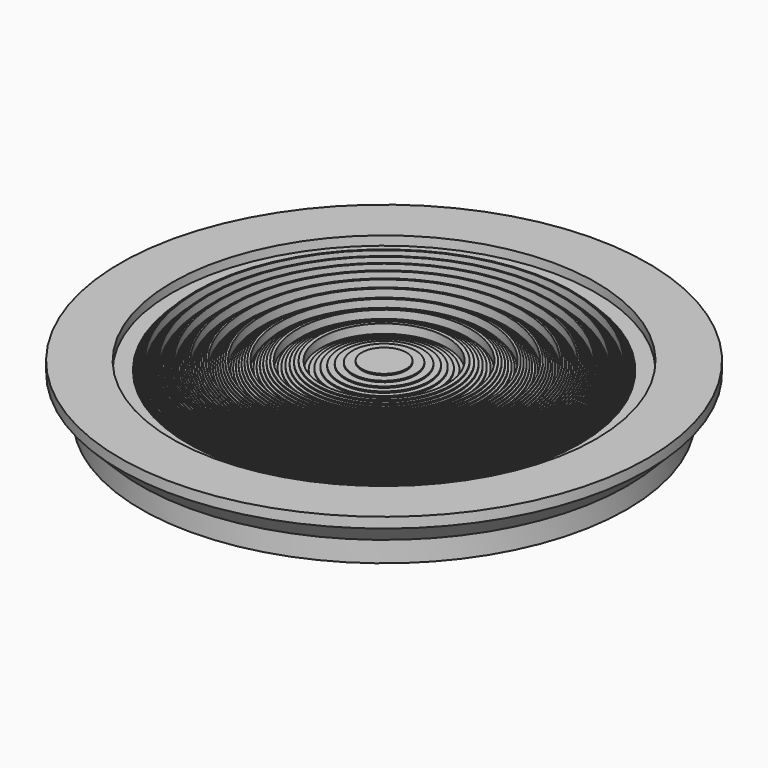
from build123d import *

# Parameters (mm, degrees)
F2_SIZE  = 2
F3_R     = 23.368
F3_R_2   = 22.86
F4_DEPTH = 2


with BuildPart() as f1:
    # F0 (on Front) → F1 (revolve)
    with BuildSketch(Plane.XZ):
        Polygon((-10.558, 1.373492), (-10.558, 1.501507), (-12.7, 1.498492), (-12.7, -1.501508), (12.7, -1.501508), (12.7, 1.498492), (7.7, 1.498492), (7.7, 0.623492), (6.174, 0.623492), (6.174, 0.748492), (6.05, 0.748492), (6.05, 0.873492), (5.925, 0.873492), (5.925, 0.998492), (5.8, 0.998492), (5.8, 1.123492), (5.673, 1.123492), (5.673, 1.248492), (5.546, 1.248492), (5.546, 1.373492), (5.418, 1.373492), (5.418, 1.498492), (5.289, 1.498492), (5.289, 0.623492), (5.159, 0.623492), (5.159, 0.748492), (5.028, 0.748492), (5.028, 0.873492), (4.896, 0.873492), (4.896, 0.998492), (4.763, 0.998492), (4.763, 1.123492), (4.628998, 1.123492), (4.628998, 1.248492), (4.494, 1.248492), (4.494, 1.373492), (4.359, 1.373492), (4.359, 1.498492), (4.222, 1.498492), (4.222, 0.623492), (4.084, 0.623492), (4.084, 0.748492), (3.945, 0.748492), (3.945, 0.873492), (3.804, 0.873492), (3.804, 0.998492), (3.663, 0.998492), (3.663, 1.123492), (3.52, 1.123492), (3.52, 1.248492), (3.377, 1.248492), (3.377, 1.373492), (3.232, 1.373492), (3.232, 1.498492), (3.085, 1.498492), (3.085, 0.623492), (2.937, 0.623492), (2.937, 0.748492), (2.788, 0.748492), (2.788, 0.873492), (2.637998, 0.873492), (2.637998, 0.998492), (2.486, 0.998492), (2.486, 1.123492), (2.332, 1.123492), (2.332, 1.248492), (2.177, 1.248492), (2.177, 1.373492), (2.021, 1.373492), (2.021, 1.498492), (1.862, 1.498492), (1.862, 0.623492), (1.702, 0.623492), (1.702, 0.748492), (1.541, 0.748492), (1.541, 0.873492), (1.377, 0.873492), (1.377, 0.998492), (1.212, 0.998492), (1.212, 1.123492), (1.044, 1.123492), (1.044, 1.248492), (0.875, 1.248492), (0.875, 1.373492), (0.703, 1.373492), (0.703, 1.498492), (0.53, 1.498492), (0.53, 0.623492), (0.354, 0.623492), (0.354, 0.748492), (0.175, 0.748492), (0.175, 0.873492), (-0.006, 0.873492), (-0.006, 0.998492), (-0.189003, 0.998492), (-0.189003, 1.123492), (-0.375, 1.123492), (-0.375, 1.248492), (-0.564, 1.248492), (-0.564, 1.373492), (-0.756, 1.373492), (-0.756, 1.498492), (-0.951, 1.498492), (-0.951, 0.623492), (-1.149, 0.623492), (-1.149, 0.748492), (-1.35, 0.748492), (-1.35, 0.873492), (-1.555, 0.873492), (-1.555, 0.998492), (-1.764, 0.998492), (-1.764, 1.123492), (-1.977, 1.123492), (-1.977, 1.248492), (-2.195, 1.248492), (-2.195, 1.373492), (-2.416, 1.373492), (-2.416, 1.498492), (-2.643, 1.498492), (-2.643, 0.623492), (-2.875, 0.623492), (-2.875, 0.873492), (-3.112, 0.873492), (-3.112, 0.998492), (-3.355, 0.998492), (-3.355, 1.123492), (-3.605, 1.123492), (-3.605, 1.248492), (-3.862, 1.248492), (-3.862, 1.373492), (-4.126, 1.373492), (-4.126, 1.498492), (-4.399, 1.498492), (-4.399, 0.623492), (-4.681, 0.623492), (-4.681, 0.873492), (-4.973, 0.873492), (-4.973, 0.998492), (-5.277, 0.998492), (-5.277, 1.123492), (-5.593, 1.123492), (-5.593, 1.248492), (-5.924, 1.248492), (-5.924, 1.373492), (-6.272, 1.373492), (-6.272, 1.498492), (-6.64, 1.498492), (-6.64, 0.623492), (-7.032, 0.623492), (-7.032, 0.748492), (-7.453, 0.748492), (-7.453, 0.873492), (-7.91, 0.873492), (-7.91, 0.998492), (-8.416, 0.998492), (-8.416, 1.123492), (-8.99, 1.123492), (-8.99, 1.248492), (-9.671, 1.248492), (-9.671, 1.373492), align=None)
    revolve(axis=Axis((-12.7, 0, -0.001508), (0, 0, 1)))

    # F2
    f2_edges = [f1.edges().sort_by_distance(p)[0] for p in [
        (-38.1, 0, -1.501508),
    ]]
    chamfer(f2_edges, length=F2_SIZE)

    # F3 (on face) → F4 (join)
    with BuildSketch(Plane(origin=(0, 0, -1.501508), x_dir=(1, 0, 0), z_dir=(0, 0, -1))):
        with Locations((-12.7, 0)):
            Circle(F3_R)
        with Locations((-12.7, 0)):
            Circle(F3_R_2, mode=Mode.SUBTRACT)
    extrude(amount=F4_DEPTH)


solid = f1.part
